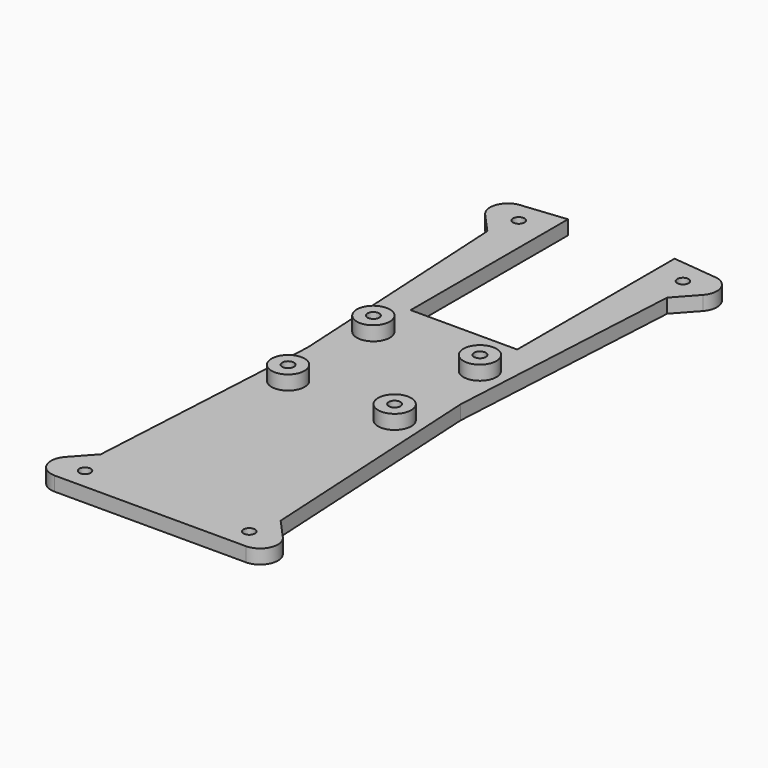
from build123d import *

# Parameters (mm, degrees)
F0_R     = 1.6
F0_R_2   = 1.65
F1_DEPTH = 4
F2_R     = 4.65
F2_R_2   = 1.65
F3_DEPTH = 8


with BuildPart() as f1:
    # F0 (on Top) → F1 (new body)
    with BuildSketch(Plane.XY):
        with BuildLine():
            Line((-25.304753, 67.984998), (-21.568825, 0))
            Line((-21.568825, 0), (-25.304753, -67.984998))
            Line((-25.304753, -67.984998), (-30.632667, -73.881868))
            ThreePointArc((-30.632667, -73.881868), (-31.492159, -79.263655), (-26.922688, -82.233891))
            Line((-26.922688, -82.233891), (0, -82.233891))
            Line((0, -82.233891), (26.922688, -82.233891))
            ThreePointArc((26.922688, -82.233891), (31.492159, -79.263655), (30.632667, -73.881868))
            Line((30.632667, -73.881868), (25.304753, -67.984998))
            Line((25.304753, -67.984998), (21.568825, 0))
            Line((21.568825, 0), (25.304753, 67.984998))
            Line((25.304753, 67.984998), (30.632667, 73.881868))
            ThreePointArc((30.632667, 73.881868), (31.492159, 79.263655), (26.922688, 82.233891))
            Line((26.922688, 82.233891), (15, 83.48982))
            Line((15, 83.48982), (15, 28.116511))
            Line((15, 28.116511), (0, 28.116511))
            Line((0, 28.116511), (-15, 28.116511))
            Line((-15, 28.116511), (-15, 83.48982))
            Line((-15, 83.48982), (-26.922688, 82.233891))
            ThreePointArc((-26.922688, 82.233891), (-31.492159, 79.263655), (-30.632667, 73.881868))
            Line((-30.632667, 73.881868), (-25.304753, 67.984998))
        make_face()
        with Locations((-23.1055, -76.293)):
            Circle(F0_R, mode=Mode.SUBTRACT)
        with Locations((-15, -15)):
            Circle(F0_R_2, mode=Mode.SUBTRACT)
        with Locations((23.1055, -76.293)):
            Circle(F0_R, mode=Mode.SUBTRACT)
        with Locations((15, -15)):
            Circle(F0_R_2, mode=Mode.SUBTRACT)
        with Locations((-15, 15)):
            Circle(F0_R_2, mode=Mode.SUBTRACT)
        with Locations((-23.1055, 76.293)):
            Circle(F0_R, mode=Mode.SUBTRACT)
        with Locations((15, 15)):
            Circle(F0_R_2, mode=Mode.SUBTRACT)
        with Locations((23.1055, 76.293)):
            Circle(F0_R, mode=Mode.SUBTRACT)
    extrude(amount=F1_DEPTH)

    # F2 (on Top) → F3 (join)
    with BuildSketch(Plane.XY):
        with Locations((-15, 15)):
            Circle(F2_R)
        with Locations((-15, 15)):
            Circle(F2_R_2, mode=Mode.SUBTRACT)
        with Locations((-15, -15)):
            Circle(F2_R)
        with Locations((-15, -15)):
            Circle(F2_R_2, mode=Mode.SUBTRACT)
        with Locations((15, 15)):
            Circle(F2_R)
        with Locations((15, 15)):
            Circle(F2_R_2, mode=Mode.SUBTRACT)
        with Locations((15, -15)):
            Circle(F2_R)
        with Locations((15, -15)):
            Circle(F2_R_2, mode=Mode.SUBTRACT)
    extrude(amount=F3_DEPTH)


solid = f1.part
